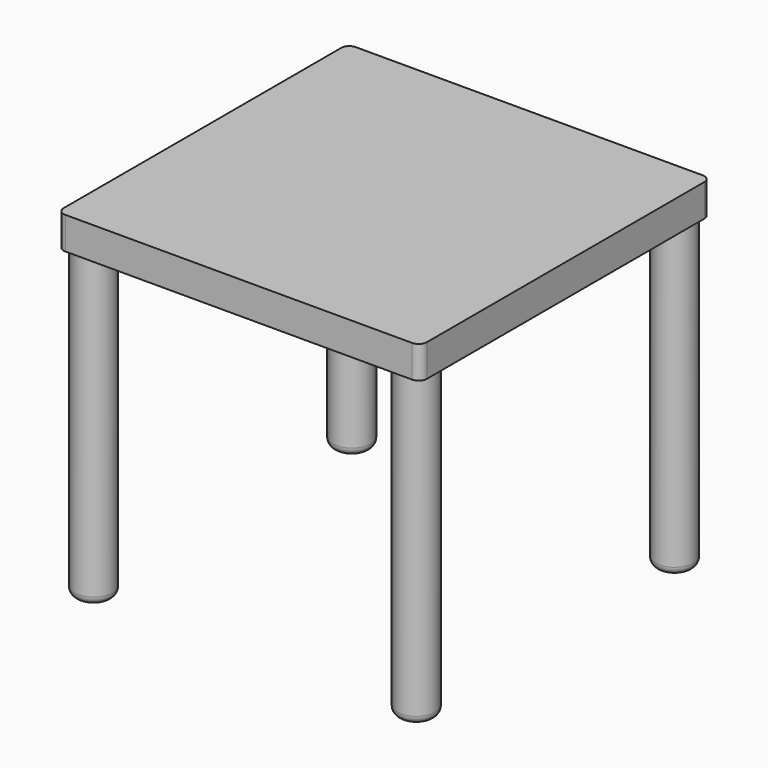
from build123d import *

# Parameters (mm, degrees)
F0_W     = 450
F0_H     = 450
F0_R     = 23.781071
F1_DEPTH = 40
F2_R     = 23.781071
F3_DEPTH = 420
F4_R     = 10
F5_R     = 10


with BuildPart() as f1:
    # F0 (on Top) → F1 (new body)
    with BuildSketch(Plane.XY):
        Rectangle(F0_W, F0_H)
        with Locations((-200, -200)):
            Circle(F0_R, mode=Mode.SUBTRACT)
        with Locations((200, -200)):
            Circle(F0_R, mode=Mode.SUBTRACT)
        with Locations((-200, 200)):
            Circle(F0_R, mode=Mode.SUBTRACT)
        with Locations((200, 200)):
            Circle(F0_R, mode=Mode.SUBTRACT)
    extrude(amount=F1_DEPTH)

    # F2 (on face) → F3 (join)
    with BuildSketch(Plane.XY.offset(40)):
        with Locations((-200, -200)):
            Circle(F2_R)
        with Locations((-200, 200)):
            Circle(F2_R)
        with Locations((200, 200)):
            Circle(F2_R)
        with Locations((200, -200)):
            Circle(F2_R)
    extrude(amount=-F3_DEPTH)

    # F4
    f4_edges = [f1.edges().sort_by_distance(p)[0] for p in [
        (-223.781071, -200, -380),
        (176.218929, -200, -380),
        (176.218929, 200, -380),
        (-223.781071, 200, -380),
    ]]
    fillet(f4_edges, radius=F4_R)

    # F5
    f5_edges = [f1.edges().sort_by_distance(p)[0] for p in [
        (225, -225, 20),
        (225, 225, 20),
        (-225, -225, 20),
        (-225, 225, 20),
    ]]
    fillet(f5_edges, radius=F5_R)


solid = f1.part
